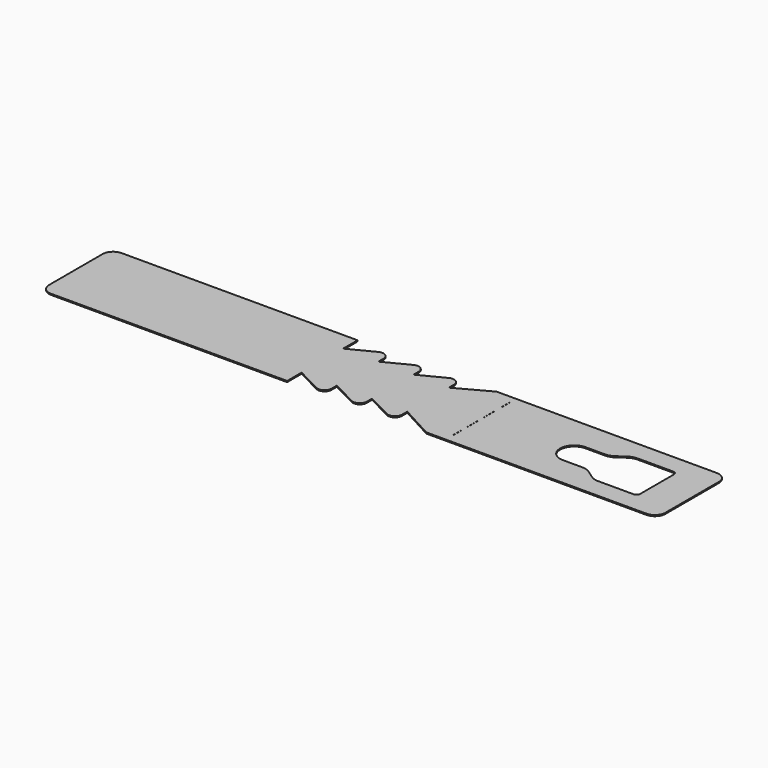
from build123d import *

# Parameters (mm, degrees)
F1_DEPTH = 0.2032
F2_W     = 0.0254
F2_H     = 2.38125
F3_DEPTH = 25.4


with BuildPart() as f1:
    # F0 (on Top) → F1 (new body)
    with BuildSketch(Plane.XY):
        with BuildLine():
            Line((-50.984638, 78.848527), (-85.909638, 78.848527))
            ThreePointArc((-85.909638, 78.848527), (-87.256676, 78.290565), (-87.814638, 76.943527))
            Line((-87.814638, 76.943527), (-87.814638, 64.878527))
            ThreePointArc((-87.814638, 64.878527), (-87.256676, 63.531488), (-85.909638, 62.973527))
            Line((-85.909638, 62.973527), (-50.984638, 62.973527))
            Line((-50.984638, 62.973527), (-43.364638, 62.973527))
            Line((-43.364638, 62.973527), (-43.364638, 65.054655))
            Line((-43.364638, 65.054655), (-43.364638, 66.238816))
            Line((-43.364638, 66.238816), (-38.86541, 63.925229))
            ThreePointArc((-38.86541, 63.925229), (-37.623079, 63.97057), (-37.014638, 65.054655))
            Line((-37.014638, 65.054655), (-37.014638, 66.238816))
            Line((-37.014638, 66.238816), (-32.51541, 63.925229))
            ThreePointArc((-32.51541, 63.925229), (-31.273079, 63.97057), (-30.664638, 65.054655))
            Line((-30.664638, 65.054655), (-30.664638, 66.238816))
            Line((-30.664638, 66.238816), (-26.16541, 63.925229))
            ThreePointArc((-26.16541, 63.925229), (-24.923079, 63.97057), (-24.314638, 65.054655))
            Line((-24.314638, 65.054655), (-24.314638, 66.238816))
            Line((-24.314638, 66.238816), (-18.278045, 62.973527))
            Line((-18.278045, 62.973527), (21.405362, 62.973527))
            ThreePointArc((21.405362, 62.973527), (22.752401, 63.531488), (23.310362, 64.878527))
            Line((23.310362, 64.878527), (23.310362, 76.943527))
            ThreePointArc((23.310362, 76.943527), (22.752401, 78.290565), (21.405362, 78.848527))
            Line((21.405362, 78.848527), (-18.278045, 78.848527))
            Line((-18.278045, 78.848527), (-24.314638, 75.583237))
            Line((-24.314638, 75.583237), (-24.314638, 76.767399))
            ThreePointArc((-24.314638, 76.767399), (-24.923079, 77.851484), (-26.16541, 77.896825))
            Line((-26.16541, 77.896825), (-30.664638, 75.583237))
            Line((-30.664638, 75.583237), (-30.664638, 76.767399))
            ThreePointArc((-30.664638, 76.767399), (-31.273079, 77.851484), (-32.51541, 77.896825))
            Line((-32.51541, 77.896825), (-37.014638, 75.583237))
            Line((-37.014638, 75.583237), (-37.014638, 76.767399))
            ThreePointArc((-37.014638, 76.767399), (-37.623079, 77.851484), (-38.86541, 77.896825))
            Line((-38.86541, 77.896825), (-43.364638, 75.583237))
            Line((-43.364638, 75.583237), (-43.364638, 76.767399))
            Line((-43.364638, 76.767399), (-43.364638, 78.848527))
            Line((-43.364638, 78.848527), (-50.984638, 78.848527))
        make_face()
        with BuildLine():
            ThreePointArc((16.325362, 75.356027), (16.774375, 75.17004), (16.960362, 74.721027))
            Line((16.960362, 74.721027), (16.960362, 67.101027))
            ThreePointArc((16.960362, 67.101027), (16.774375, 66.652014), (16.325362, 66.466027))
            Line((16.325362, 66.466027), (9.939451, 66.466027))
            ThreePointArc((9.939451, 66.466027), (9.125846, 66.591253), (8.387553, 66.955338))
            Line((8.387553, 66.955338), (7.06455, 67.881715))
            ThreePointArc((7.06455, 67.881715), (6.326257, 68.245801), (5.512652, 68.371027))
            Line((5.512652, 68.371027), (2.037862, 68.371027))
            ThreePointArc((2.037862, 68.371027), (-0.502138, 70.911027), (2.037862, 73.451027))
            Line((2.037862, 73.451027), (5.512652, 73.451027))
            ThreePointArc((5.512652, 73.451027), (6.326257, 73.576253), (7.06455, 73.940338))
            Line((7.06455, 73.940338), (8.387553, 74.866715))
            ThreePointArc((8.387553, 74.866715), (9.125846, 75.230801), (9.939451, 75.356027))
            Line((9.939451, 75.356027), (16.325362, 75.356027))
        make_face(mode=Mode.SUBTRACT)
    extrude(amount=F1_DEPTH)

    # F2 (on face) → F3 (cut)
    with BuildSketch(Plane.XY.offset(0.2032)):
        with Locations((-14.789638, 76.387902)):
            Rectangle(F2_W, F2_H)
        with Locations((-14.789638, 72.736652)):
            Rectangle(F2_W, F2_H)
        with Locations((-14.789638, 69.085402)):
            Rectangle(F2_W, F2_H)
        with Locations((-14.789638, 65.434152)):
            Rectangle(F2_W, F2_H)
    extrude(amount=-F3_DEPTH, mode=Mode.SUBTRACT)


solid = f1.part
